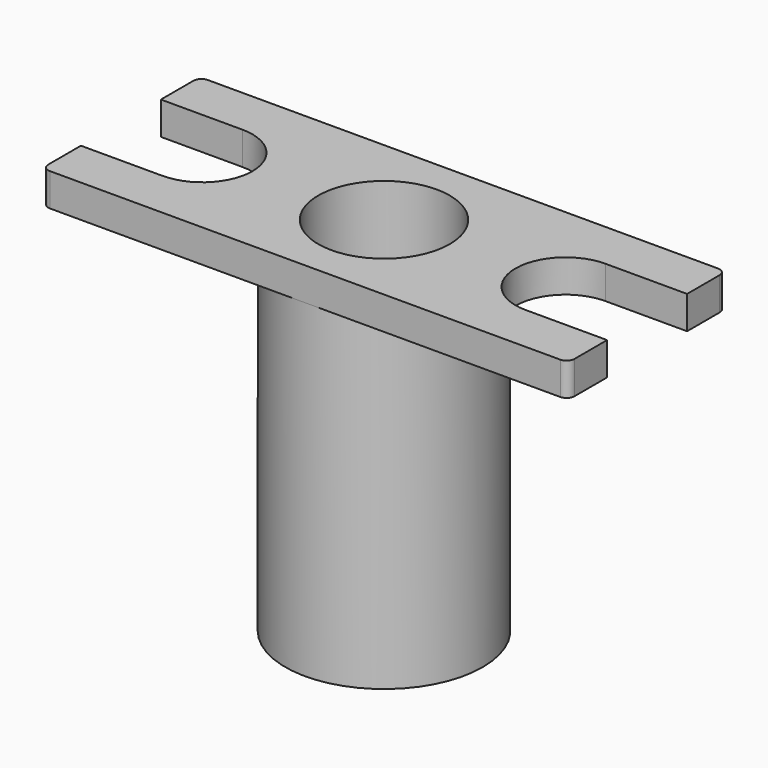
from build123d import *

# Parameters (mm, degrees)
F0_R     = 19.05
F1_DEPTH = 34.925
F2_R     = 12.7
F3_DEPTH = 63.5
F4_R     = 4.7625
F5_DEPTH = 69.851
F7_DEPTH = 6.35


with BuildPart() as f1:
    # F0 (on Top) → F1 (new body, symmetric)
    with BuildSketch(Plane.XY):
        Circle(F0_R)
    extrude(amount=F1_DEPTH, both=True)

    # F2 (on face) → F3 (cut)
    with BuildSketch(Plane.XY.offset(34.925)):
        Circle(F2_R)
    extrude(amount=-F3_DEPTH, mode=Mode.SUBTRACT)

    # F4 (on face) → F5 (cut, through all)
    with BuildSketch(Plane(origin=(0, 0, -34.925), x_dir=(1, 0, 0), z_dir=(0, 0, -1))):
        Circle(F4_R)
    extrude(amount=-F5_DEPTH, mode=Mode.SUBTRACT)

    # F6 (on face) → F7 (join)
    with BuildSketch(Plane.XY.offset(34.925)):
        with BuildLine():
            Line((3.68e-08, 19.05), (-49.276, 19.05))
            ThreePointArc((-49.276, 19.05), (-50.3536307345, 18.6036307345), (-50.8, 17.526))
            Line((-50.8, 17.526), (-50.8, 9.652))
            Line((-50.8, 9.652), (-35.052, 9.652))
            ThreePointArc((-35.052, 9.652), (-25.4, 0), (-35.052, -9.652))
            Line((-35.052, -9.652), (-50.8, -9.652))
            Line((-50.8, -9.652), (-50.8, -17.526))
            ThreePointArc((-50.8, -17.526), (-50.3536307345, -18.6036307345), (-49.276, -19.05))
            Line((-49.276, -19.05), (3.68e-08, -19.05))
            ThreePointArc((3.68e-08, -19.05), (-19.05, 0), (3.68e-08, 19.05))
        make_face()
        with BuildLine():
            Line((49.276, 19.05), (3.68e-08, 19.05))
            ThreePointArc((3.68e-08, 19.05), (13.4703841946, 13.4703841686), (19.05, 0))
            ThreePointArc((19.05, 0), (13.4703841946, -13.4703841686), (3.68e-08, -19.05))
            Line((3.68e-08, -19.05), (49.276, -19.05))
            ThreePointArc((49.276, -19.05), (50.3536307345, -18.6036307345), (50.8, -17.526))
            Line((50.8, -17.526), (50.8, -9.652))
            Line((50.8, -9.652), (35.052, -9.652))
            ThreePointArc((35.052, -9.652), (25.4, 0), (35.052, 9.652))
            Line((35.052, 9.652), (50.8, 9.652))
            Line((50.8, 9.652), (50.8, 17.526))
            ThreePointArc((50.8, 17.526), (50.3536307345, 18.6036307345), (49.276, 19.05))
        make_face()
    extrude(amount=-F7_DEPTH)


solid = f1.part
